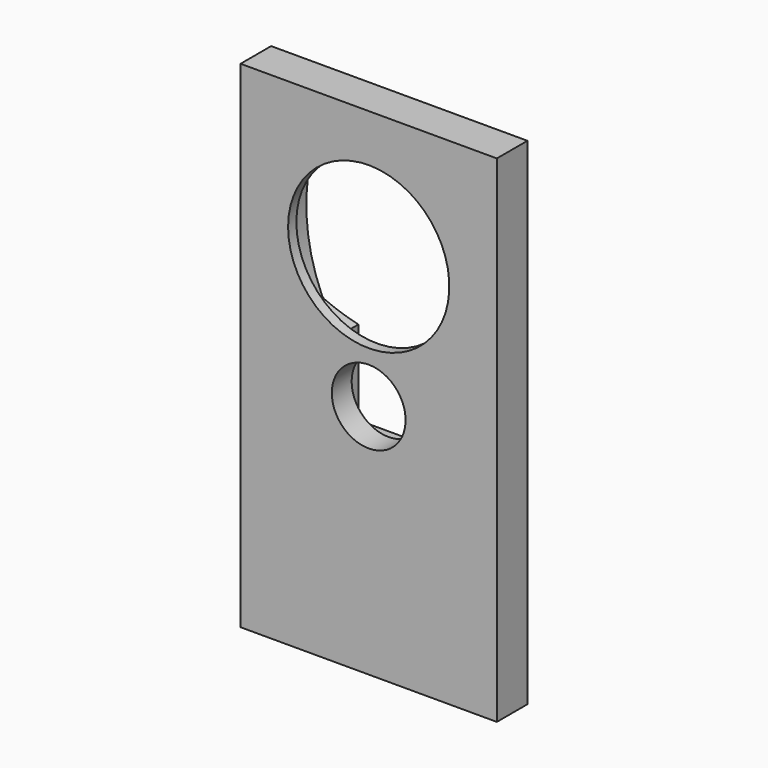
from build123d import *

# Parameters (mm, degrees)
F0_W      = 124
F0_H      = 240
F1_DEPTH  = 18.5
F2_R      = 39
F2_R_2    = 17.85
F3_DEPTH  = 18.501
F5_DEPTH  = 13.5
F7_R      = 3.55
F8_DEPTH  = 2.6
F9_W      = 39.5
F9_H      = 42.75
F10_DEPTH = 6.5
F11_R     = 3


with BuildPart() as f1:
    # F0 (on Front) → F1 (new body)
    with BuildSketch(Plane.XZ):
        with Locations((62, -120)):
            Rectangle(F0_W, F0_H)
    extrude(amount=F1_DEPTH)

    # F2 (on face) → F3 (cut, through all)
    with BuildSketch(Plane(origin=(0, 0, 0), x_dir=(-1, 0, 0), z_dir=(0, 1, 0))):
        with Locations((-62, -62)):
            Circle(F2_R)
        with Locations((-62, -125.85)):
            Circle(F2_R_2)
    extrude(amount=-F3_DEPTH, mode=Mode.SUBTRACT)

    # F4 (on face) → F5 (cut)
    with BuildSketch(Plane(origin=(0, 0, 0), x_dir=(-1, 0, 0), z_dir=(0, 1, 0))):
        with BuildLine():
            ThreePointArc((-24.970595501, -99.029404499), (-17, -62), (-24.970595501, -24.970595501))
            ThreePointArc((-24.970595501, -24.970595501), (-62, -17), (-99.029404499, -24.970595501))
            ThreePointArc((-99.029404499, -24.970595501), (-107, -62), (-99.029404499, -99.029404499))
            ThreePointArc((-99.029404499, -99.029404499), (-62, -107), (-24.970595501, -99.029404499))
        make_face()
    extrude(amount=-F5_DEPTH, mode=Mode.SUBTRACT)

    # F7 (on offset) → F8 (cut)
    with BuildSketch(Plane.XZ.offset(13.5)):
        with Locations((29.1195346748, -29.1195346748)):
            Circle(F7_R)
        with Locations((29.1195346748, -94.8804653252)):
            Circle(F7_R)
        with Locations((94.8804653252, -94.8804653252)):
            Circle(F7_R)
        with Locations((94.8804653252, -29.1195346748)):
            Circle(F7_R)
    extrude(amount=F8_DEPTH, mode=Mode.SUBTRACT)

    # F9 (on face) → F10 (cut)
    with BuildSketch(Plane(origin=(0, 0, 0), x_dir=(-1, 0, 0), z_dir=(0, 1, 0))):
        with Locations((-62, -124.225)):
            Rectangle(F9_W, F9_H)
    extrude(amount=-F10_DEPTH, mode=Mode.SUBTRACT)

    # F11
    f11_edges = [f1.edges().sort_by_distance(p)[0] for p in [
        (81.75, -3.25, -145.6),
        (42.25, -3.25, -145.6),
        (99.029404, -6.75, -99.029404),
        (24.970596, -6.75, -99.029404),
        (24.970596, -6.75, -24.970596),
        (99.029404, -6.75, -24.970596),
    ]]
    fillet(f11_edges, radius=F11_R)


solid = f1.part
